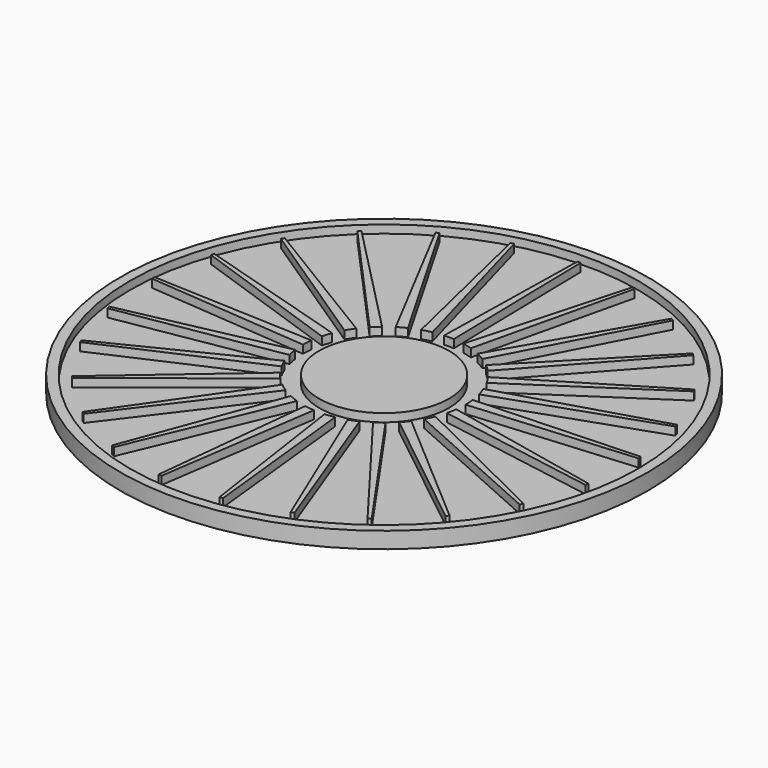
from build123d import *

# Parameters (mm, degrees)
F0_R     = 32.5
F1_DEPTH = 2
F2_R     = 31.3
F2_R_2   = 8
F3_DEPTH = 1
F5_DEPTH = 1
F6_COUNT = 25


with BuildPart() as f1:
    # F0 (on Top) → F1 (new body)
    with BuildSketch(Plane.XY):
        Circle(F0_R)
    extrude(amount=F1_DEPTH)

    # F2 (on face) → F3 (cut)
    with BuildSketch(Plane.XY.offset(2)):
        Circle(F2_R)
        Circle(F2_R_2, mode=Mode.SUBTRACT)
    extrude(amount=-F3_DEPTH, mode=Mode.SUBTRACT)

    # F4 (on face) → F5 (join, through all)
    with BuildSketch(Plane.XY.offset(1)):
        with BuildLine():
            ThreePointArc((-0.6, 9.981984), (0, 10), (0.6, 9.981984))
            Line((0.6, 9.981984), (0.2, 30))
            Line((0.2, 30), (0, 30))
            Line((0, 30), (-0.2, 30))
            Line((-0.2, 30), (-0.6, 9.981984))
        make_face()
    extrude(amount=F5_DEPTH)

    # F6: F1 ×25 about axis
    f6_axis = Axis((0, 0, 0), (0, 0, -1))


with BuildPart() as f1_1:
    add(f1.part)
    for i in range(1, F6_COUNT):
        add(f1.part.rotate(f6_axis, i * 360 / F6_COUNT))


solid = f1_1.part
